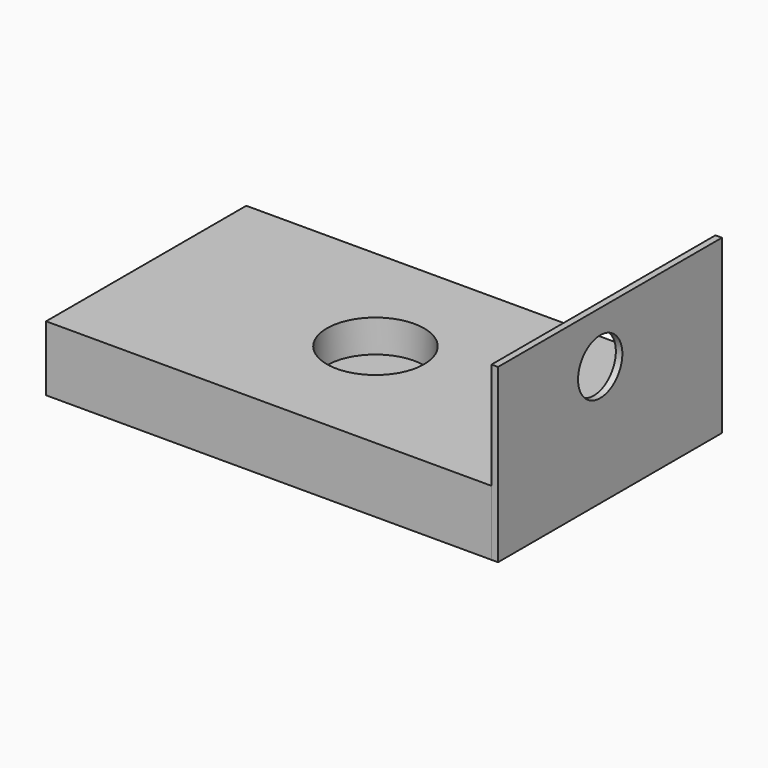
from build123d import *

# Parameters (mm, degrees)
F0_W     = 68.36
F0_H     = 38.402704
F1_DEPTH = 10
F2_R     = 7.466851
F3_DEPTH = 5
F4_W     = 42.948617
F4_H     = 26.389016
F5_DEPTH = 1
F6_R     = 4.253524
F7_DEPTH = 1


with BuildPart() as f1:
    # F0 (on Top) → F1 (new body)
    with BuildSketch(Plane.XY):
        with Locations((-0.695145, -0.397226)):
            Rectangle(F0_W, F0_H)
    extrude(amount=F1_DEPTH)

    # F2 (on face) → F3 (cut)
    with BuildSketch(Plane.XY.offset(10)):
        Circle(F2_R)
    extrude(amount=-F3_DEPTH, mode=Mode.SUBTRACT)

    # F4 (on face) → F5 (join)
    with BuildSketch(Plane.YZ.offset(33.484855)):
        with Locations((1.87573, 13.194508)):
            Rectangle(F4_W, F4_H)
    extrude(amount=F5_DEPTH)

    # F6 (on face) → F7 (cut)
    with BuildSketch(Plane.YZ.offset(34.484855)):
        with Locations((0, 18.462041)):
            Circle(F6_R)
    extrude(amount=-F7_DEPTH, mode=Mode.SUBTRACT)


solid = f1.part
